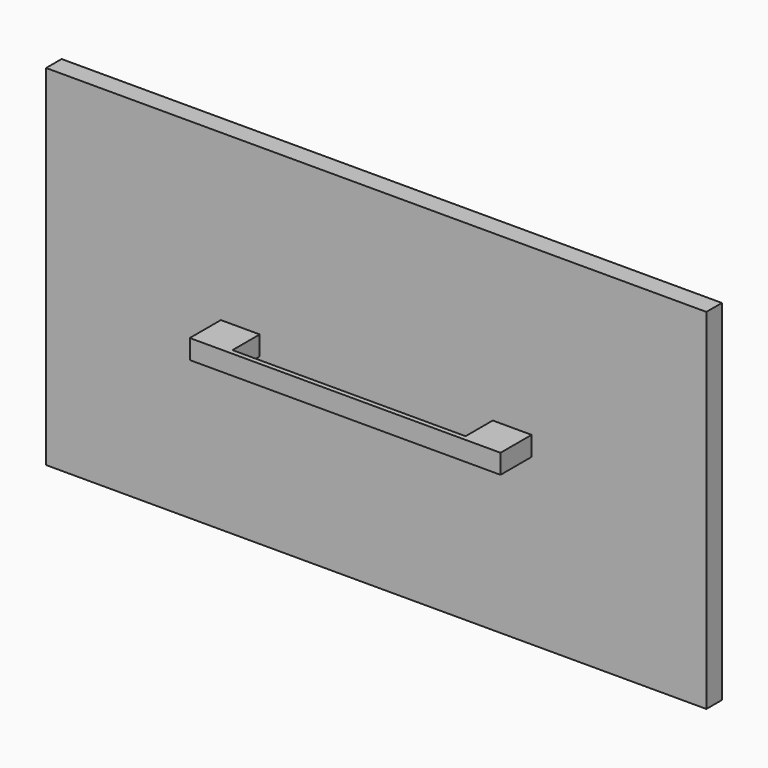
from build123d import *

# Parameters (mm, degrees)
F0_W     = 431.8
F0_H     = 228.6
F1_DEPTH = 12.7
F3_DEPTH = 22.225
F4_W     = 3.175
F4_H     = 12.7
F5_DEPTH = 203.2


with BuildPart() as f1:
    # F0 (on Front) → F1 (new body)
    with BuildSketch(Plane.XZ):
        with Locations((215.9, 114.3)):
            Rectangle(F0_W, F0_H)
    extrude(amount=F1_DEPTH)

    # F2 (on face) → F3 (join)
    with BuildSketch(Plane.XZ.offset(12.7)):
        Polygon((139.7, 107.95), (139.7, 114.3), (139.7, 120.65), (114.3, 120.65), (114.3, 114.3), (114.3, 107.95), align=None)
        Polygon((317.5, 120.65), (292.1, 120.65), (292.1, 114.3), (292.1, 107.95), (317.5, 107.95), (317.5, 114.3), align=None)
    extrude(amount=F3_DEPTH)

    # F4 (on face) → F5 (join, through all)
    with BuildSketch(Plane.YZ.offset(317.5)):
        with Locations((-36.5125, 114.3)):
            Rectangle(F4_W, F4_H)
    extrude(amount=-F5_DEPTH)


solid = f1.part
